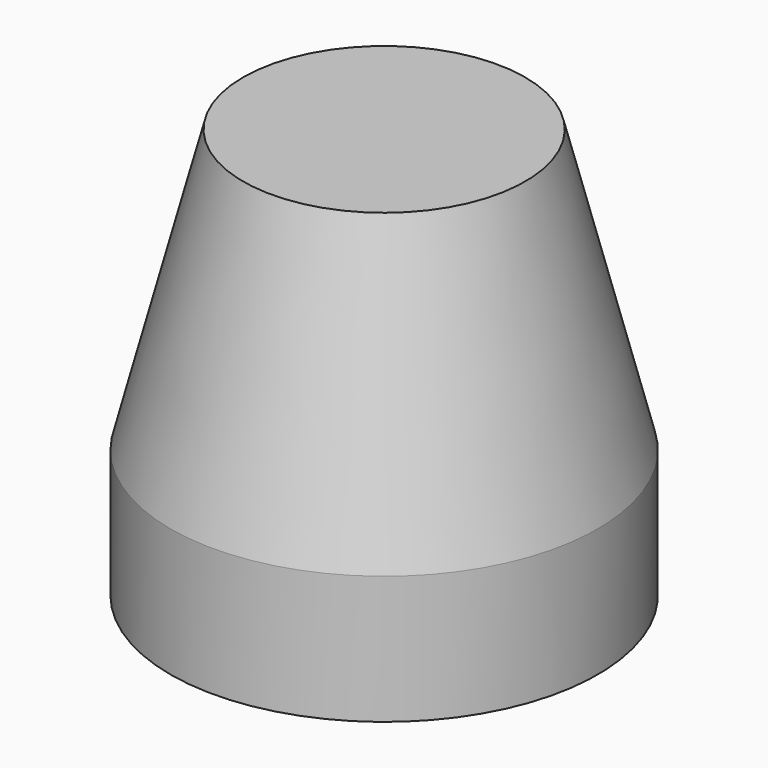
from build123d import *


with BuildPart() as part:
    # Sketch → Revolution (revolve)
    with BuildSketch(Plane.XZ):
        Polygon((0, 0), (-25, 0), (-25, 15), (-16.5, 48), (0, 48), align=None)
    revolve(axis=Axis((0, 0, 0), (0, 0, 1)))


solid = part.part
